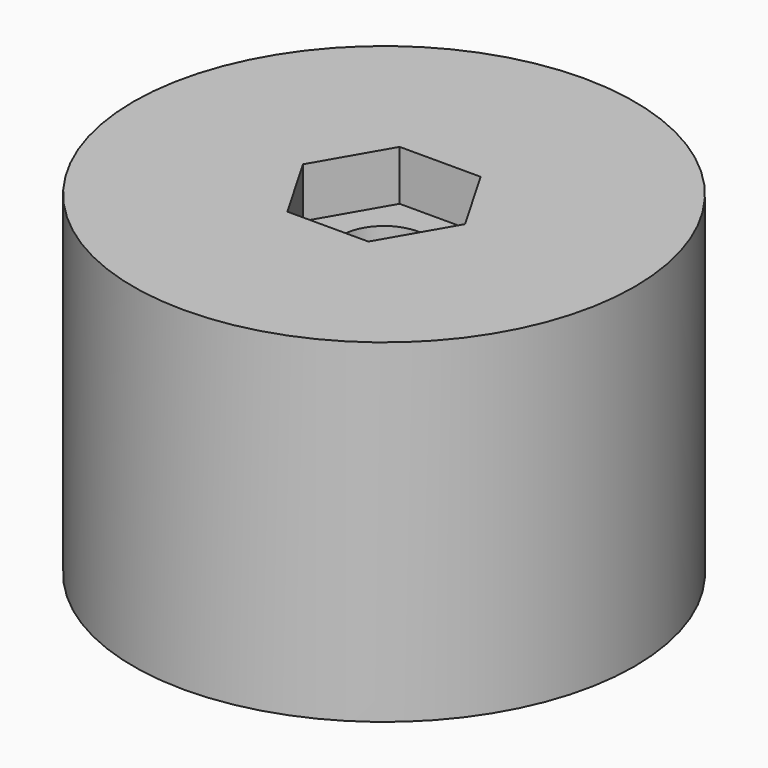
from build123d import *

# Parameters (mm, degrees)
F0_R     = 15
F0_R_2   = 9.5
F0_R_3   = 4.5
F0_R_4   = 2.55
F1_DEPTH = 15
F3_DEPTH = 3
F4_DEPTH = 10
F5_DEPTH = 5


with BuildPart() as f1:
    # F0 (on Top) → F1 (new body)
    with BuildSketch(Plane.XY):
        Circle(F0_R)
        Circle(F0_R_2, mode=Mode.SUBTRACT)
        Circle(F0_R_2)
        Circle(F0_R_3, mode=Mode.SUBTRACT)
        Circle(F0_R_3)
        Circle(F0_R_4, mode=Mode.SUBTRACT)
    extrude(amount=F1_DEPTH)

    # F2 (on face) → F3 (cut)
    with BuildSketch(Plane.XY.offset(15)):
        Polygon((2.4248711306, -4.2), (4.8497422612, 0), (2.4248711306, 4.2), (-2.4248711306, 4.2), (-4.8497422612, 0), (-2.4248711306, -4.2), align=None)
    extrude(amount=-F3_DEPTH, mode=Mode.SUBTRACT)

    # F0 (on Top) → F4 (cut)
    with BuildSketch(Plane.XY):
        Circle(F0_R_3)
        Circle(F0_R_4, mode=Mode.SUBTRACT)
    extrude(amount=F4_DEPTH, mode=Mode.SUBTRACT)

    # F0 (on Top) → F5 (join)
    with BuildSketch(Plane.XY):
        Circle(F0_R)
        Circle(F0_R_2, mode=Mode.SUBTRACT)
    extrude(amount=-F5_DEPTH)


solid = f1.part
